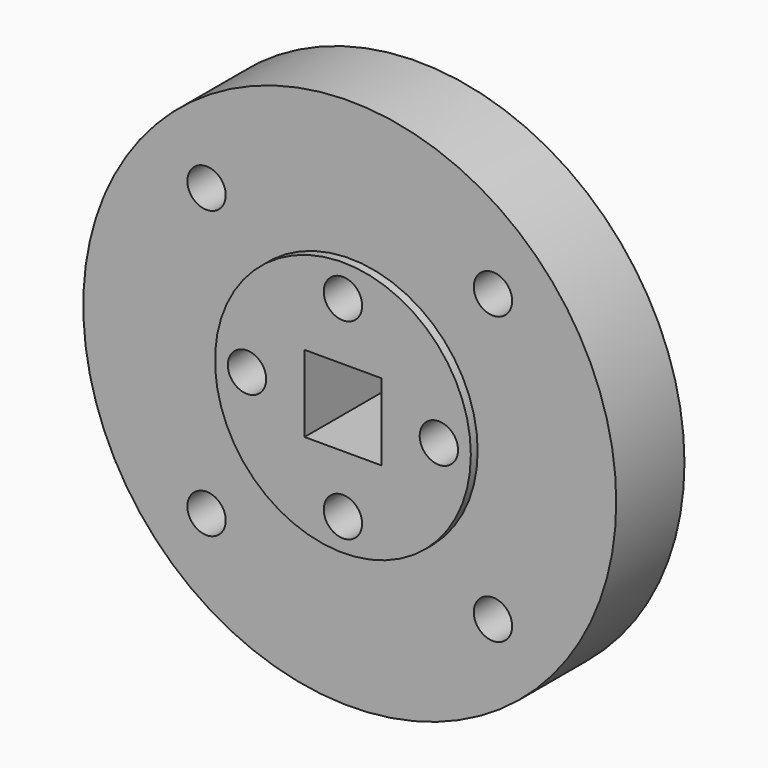
from build123d import *

# Parameters (mm, degrees)
F0_R     = 62.5
F0_R_2   = 4.5
F0_W     = 18
F0_H     = 18
F1_DEPTH = 20
F2_R     = 30
F2_W     = 18
F2_H     = 18
F3_DEPTH = 2
F4_R     = 30
F4_W     = 18
F4_H     = 18
F5_DEPTH = 2
F6_R     = 4.5
F7_DEPTH = 30


with BuildPart() as f1:
    # F0 (on Front) → F1 (new body)
    with BuildSketch(Plane.XZ):
        Circle(F0_R)
        with Locations((-33.587572, -33.587572)):
            Circle(F0_R_2, mode=Mode.SUBTRACT)
        with Locations((33.587572, -33.587572)):
            Circle(F0_R_2, mode=Mode.SUBTRACT)
        with Locations((-33.587572, 33.587572)):
            Circle(F0_R_2, mode=Mode.SUBTRACT)
        Rectangle(F0_W, F0_H, mode=Mode.SUBTRACT)
        with Locations((33.587572, 33.587572)):
            Circle(F0_R_2, mode=Mode.SUBTRACT)
    extrude(amount=F1_DEPTH)

    # F2 (on face) → F3 (join)
    with BuildSketch(Plane(origin=(0, 0, 0), x_dir=(-1, 0, 0), z_dir=(0, 1, 0))):
        Circle(F2_R)
        Rectangle(F2_W, F2_H, mode=Mode.SUBTRACT)
    extrude(amount=F3_DEPTH)

    # F4 (on face) → F5 (join)
    with BuildSketch(Plane.XZ.offset(20)):
        Circle(F4_R)
        Rectangle(F4_W, F4_H, mode=Mode.SUBTRACT)
    extrude(amount=F5_DEPTH)

    # F6 (on face) → F7 (cut)
    with BuildSketch(Plane.XZ.offset(22)):
        with Locations((0, 22.5)):
            Circle(F6_R)
        with Locations((22.5, 0)):
            Circle(F6_R)
        with Locations((0, -22.5)):
            Circle(F6_R)
        with Locations((-22.5, 0)):
            Circle(F6_R)
    extrude(amount=-F7_DEPTH, mode=Mode.SUBTRACT)


solid = f1.part
